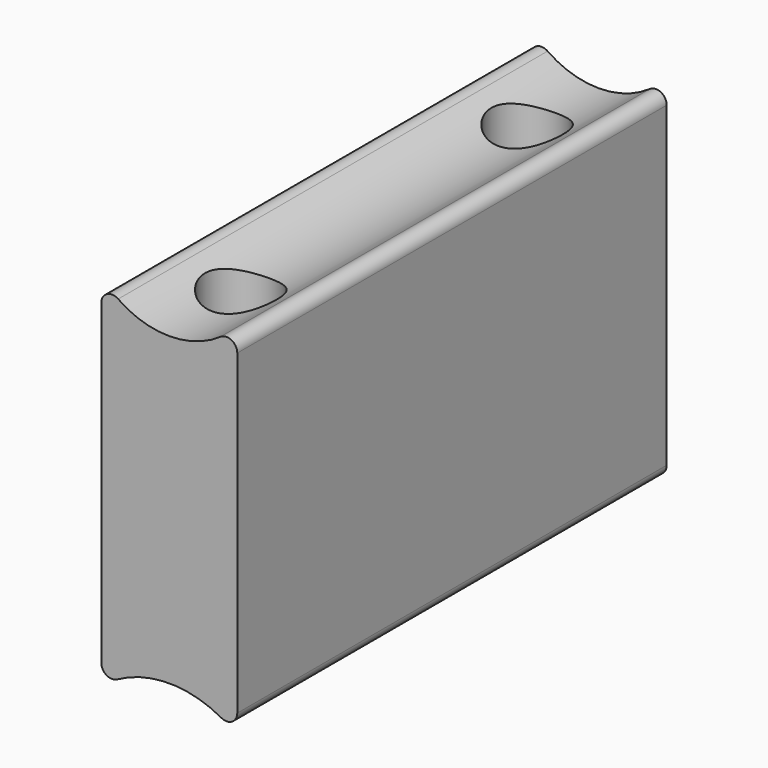
from build123d import *

# Parameters (mm, degrees)
F1_DEPTH = 37.5
F2_R     = 5
F3_DEPTH = 103.7


with BuildPart() as f1:
    # F0 (on Front) → F1 (new body, symmetric)
    with BuildSketch(Plane.XZ):
        with BuildLine():
            ThreePointArc((7.142857, 59.944852), (0, 57.703), (-7.142857, 59.944852))
            ThreePointArc((-7.142857, 59.944852), (-8.694365, 60.043483), (-9.5, 58.713875))
            Line((-9.5, 58.713875), (-9.5, 14.43087))
            ThreePointArc((-9.5, 14.43087), (-8.761279, 13.138409), (-7.272727, 13.118972))
            ThreePointArc((-7.272727, 13.118972), (0, 15), (7.272727, 13.118972))
            ThreePointArc((7.272727, 13.118972), (8.761279, 13.138409), (9.5, 14.43087))
            Line((9.5, 14.43087), (9.5, 58.713875))
            ThreePointArc((9.5, 58.713875), (8.694365, 60.043483), (7.142857, 59.944852))
        make_face()
    extrude(amount=F1_DEPTH, both=True)

    # F2 (on Top) → F3 (cut)
    with BuildSketch(Plane.XY):
        with Locations((0, 25)):
            Circle(F2_R)
        with Locations((0, -25)):
            Circle(F2_R)
    extrude(amount=F3_DEPTH, mode=Mode.SUBTRACT)


solid = f1.part
